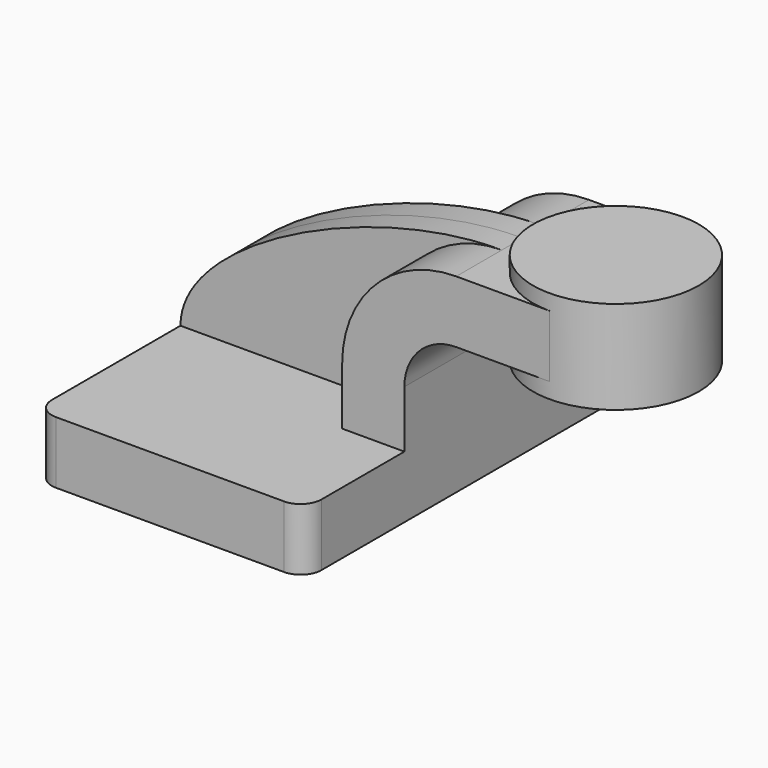
from build123d import *

# Parameters (mm, degrees)
F1_DEPTH = 63.5
F2_DEPTH = 25.4
F3_DEPTH = 7.9375
F0_W     = 25.4
F0_H     = 19.05
F4_DEPTH = 25.4
F6_R     = 6.35


with BuildPart() as f1:
    # F0 (on Front) → F1 (new body, symmetric)
    with BuildSketch(Plane.XZ):
        Polygon((41.275, -9.525), (41.275, 9.525), (22.225, 9.525), (-41.275, 9.525), (-41.275, -9.525), align=None)
    extrude(amount=F1_DEPTH, both=True)

    # F0 (on Front) → F2 (join, symmetric)
    with BuildSketch(Plane.XZ):
        with BuildLine():
            Line((22.225, 9.525), (41.275, 9.525))
            Line((41.275, 9.525), (41.275, 27.0002))
            ThreePointArc((41.275, 27.0002), (45.9246798487, 38.2255201513), (57.15, 42.8752))
            Line((57.15, 42.8752), (60.325, 42.8752))
            Line((60.325, 42.8752), (60.325, 61.9252))
            Line((60.325, 61.9252), (57.15, 61.9252))
            ThreePointArc((57.15, 61.9252), (32.4542956671, 51.6959043329), (22.225, 27.0002))
            Line((22.225, 27.0002), (22.225, 9.525))
        make_face()
    extrude(amount=F2_DEPTH, both=True)

    # F0 (on Front) → F3 (join, symmetric)
    with BuildSketch(Plane.XZ):
        with BuildLine():
            Line((-41.275, 9.525), (22.225, 9.525))
            Line((22.225, 9.525), (22.225, 27.0002))
            ThreePointArc((22.225, 27.0002), (32.4542956671, 51.6959043329), (57.15, 61.9252))
            add(Edge.make_bspline(
                [(-41.275, 9.525), (-41.1688275635, 34.6403568983), (17.4624975771, 62.293600291), (57.15, 61.9252)],
                knots=[0, 0, 0, 0, 111.5045361635, 111.5045361635, 111.5045361635, 111.5045361635], degree=3))
        make_face()
    extrude(amount=F3_DEPTH, both=True)

    # F0 (on Front) → F4 (join, symmetric)
    with BuildSketch(Plane.XZ):
        with Locations((73.025, 52.4002)):
            Rectangle(F0_W, F0_H)
    extrude(amount=F4_DEPTH, both=True)

    # F0 (on Front) → F5 (revolve)
    with BuildSketch(Plane.XZ):
        Polygon((85.725, 61.9252), (85.725, 42.8752), (85.725, 38.1), (111.125, 38.1), (111.125, 66.675), (85.725, 66.675), align=None)
    revolve(axis=Axis((85.725, 0, 52.3875), (0, 0, -1)))

    # F6
    f6_edges = [f1.edges().sort_by_distance(p)[0] for p in [
        (41.275, -63.5, 0),
        (-41.275, -63.5, 0),
        (41.275, 63.5, 0),
        (-41.275, 63.5, 0),
    ]]
    fillet(f6_edges, radius=F6_R)


solid = f1.part
